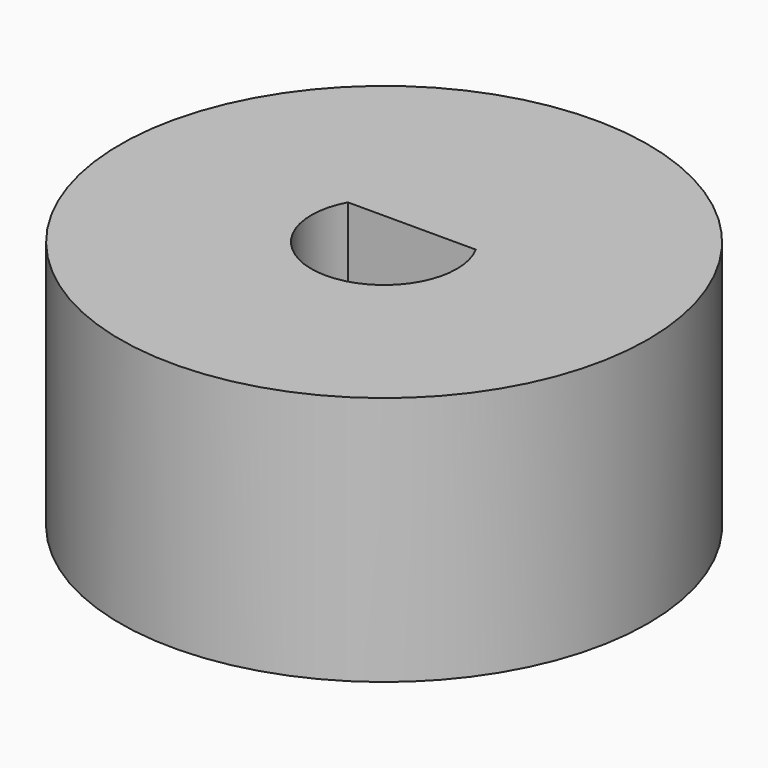
from build123d import *

# Parameters (mm, degrees)
F0_R     = 11.7475
F1_DEPTH = 11.1252


with BuildPart() as f1:
    # F0 (on Top) → F1 (new body)
    with BuildSketch(Plane.XY):
        Circle(F0_R)
        with BuildLine():
            ThreePointArc((2.846846, 1.54381), (3.13906, 0.796358), (3.2385, 0))
            ThreePointArc((3.2385, 0), (-0.796358, -3.13906), (-2.846846, 1.54381))
            ThreePointArc((-2.846846, 1.54381), (0, 3.2385), (2.846846, 1.54381))
        make_face(mode=Mode.SUBTRACT)
        with BuildLine():
            Line((-2.846846, 1.54381), (2.846846, 1.54381))
            ThreePointArc((2.846846, 1.54381), (0, 3.2385), (-2.846846, 1.54381))
        make_face()
    extrude(amount=F1_DEPTH)


solid = f1.part
